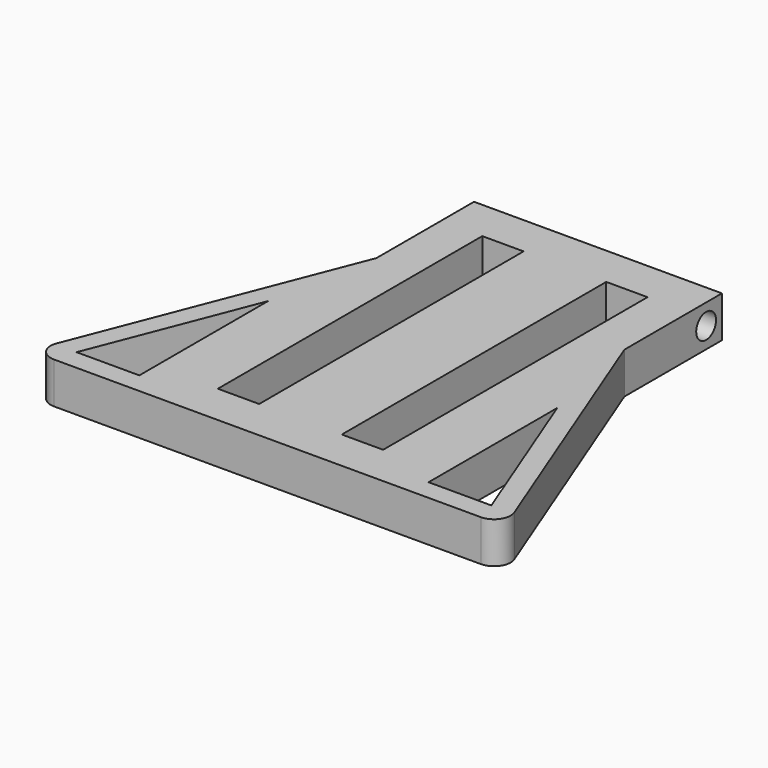
from build123d import *

# Parameters (mm, degrees)
F0_W     = 12.7
F0_H     = 101.6
F1_DEPTH = 12.7
F2_R     = 5.08
F3_R     = 3.81
F4_DEPTH = 76.2


with BuildPart() as f1:
    # F0 (on Top) → F1 (new body)
    with BuildSketch(Plane.XY):
        Polygon((-38.1, -63.5), (38.1, -63.5), (73.039025, -63.5), (38.1, 26.026342), (38.1, 63.5), (-38.1, 63.5), (-38.1, 26.026342), (-73.039025, -63.5), align=None)
        Polygon((-63.744396, -57.149999), (-44.450001, -7.710822), (-44.450001, -57.149999), align=None, mode=Mode.SUBTRACT)
        Polygon((44.45, -57.15), (44.45, -7.710819), (63.744397, -57.15), align=None, mode=Mode.SUBTRACT)
        with Locations((-19.05, 0)):
            Rectangle(F0_W, F0_H, mode=Mode.SUBTRACT)
        with Locations((19.05, 0)):
            Rectangle(F0_W, F0_H, mode=Mode.SUBTRACT)
    extrude(amount=F1_DEPTH)

    # F2
    f2_edges = [f1.edges().sort_by_distance(p)[0] for p in [
        (73.039025, -63.5, 6.35),
        (-73.039025, -63.5, 6.35),
    ]]
    fillet(f2_edges, radius=F2_R)

    # F3 (on face) → F4 (cut)
    with BuildSketch(Plane(origin=(-38.1, 0, 0), x_dir=(0, -1, 0), z_dir=(-1, 0, 0))):
        with Locations((-57.429425, 6.35)):
            Circle(F3_R)
    extrude(amount=-F4_DEPTH, mode=Mode.SUBTRACT)


solid = f1.part
